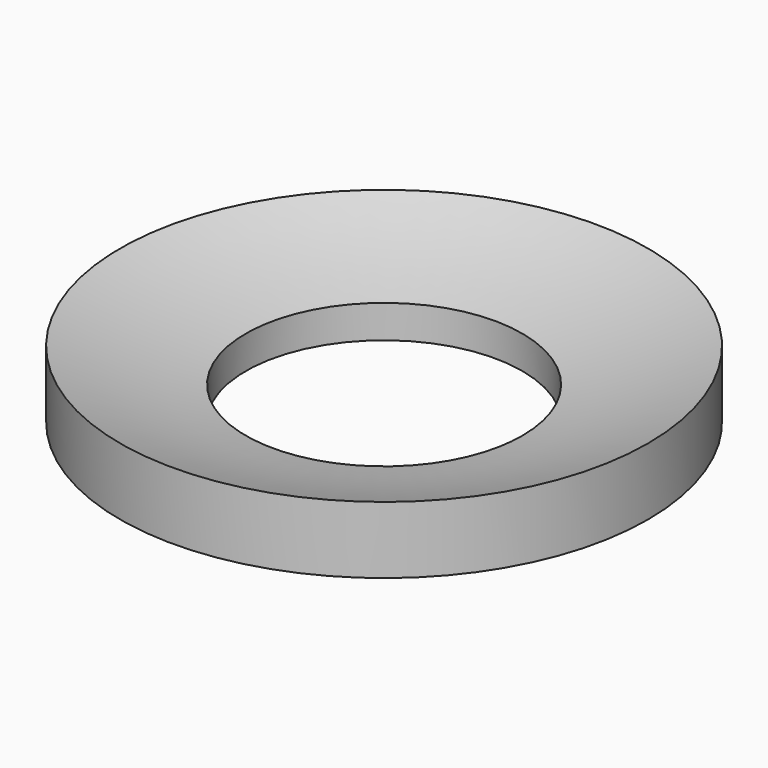
from build123d import *

# Parameters (mm, degrees)
F0_R     = 50.00625
F0_R_2   = 26.19375
F1_DEPTH = 12.7


with BuildPart() as f1:
    # F0 (on Top) → F1 (new body)
    with BuildSketch(Plane.XY):
        Circle(F0_R)
        Circle(F0_R_2, mode=Mode.SUBTRACT)
    extrude(amount=F1_DEPTH)

    # F2 (on Front) → F3 (revolve, cut)
    with BuildSketch(Plane.XZ):
        with BuildLine():
            Line((0, 12.7), (0, 3.8723650173))
            ThreePointArc((0, 3.8723650173), (25.3897232087, 6.0962044783), (50.00625, 12.7))
            Line((50.00625, 12.7), (0, 12.7))
        make_face()
        with BuildLine():
            Line((0, 12.7), (50.00625, 12.7))
            ThreePointArc((50.00625, 12.7), (143.826160539, 175.312088226), (0, 295.9723650173))
            Line((0, 295.9723650173), (0, 12.7))
        make_face()
    revolve(axis=Axis((0, 0, 149.9223650173), (0, 0, 1)), mode=Mode.SUBTRACT)


solid = f1.part
